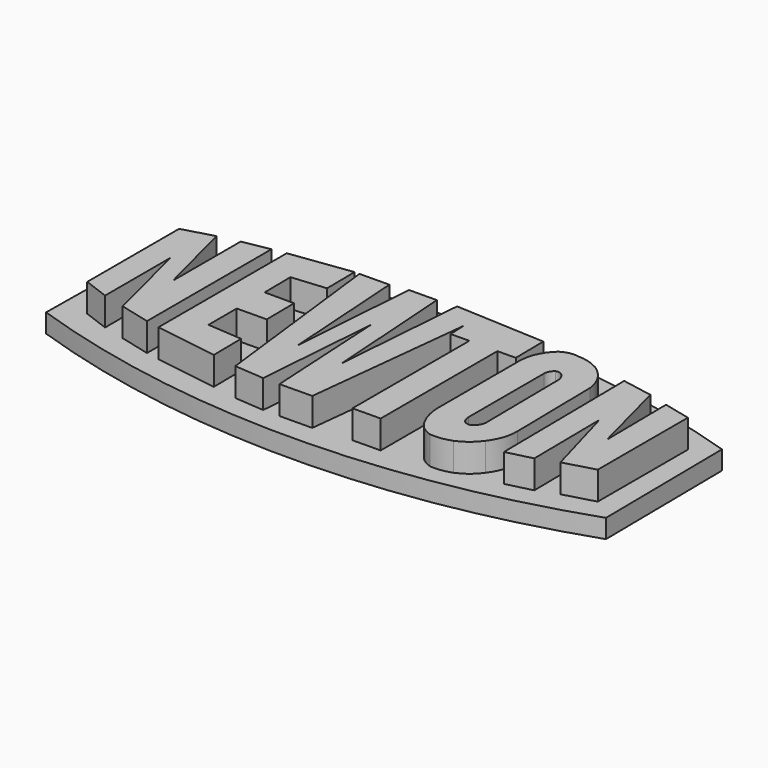
from build123d import *

# Parameters (mm, degrees)
F1_DEPTH = 3
F3_DEPTH = 2


with BuildPart() as f1:
    # F0 (on Top) → F1 (new body)
    with BuildSketch(Plane.XY):
        Polygon((-23.565747, 8.733586), (-26.811946, 7.810456), (-26.811946, -4.42697), (-24.105687, -5.435429), (-24.105687, 3.273411), (-21.755431, -6.025282), (-18.503955, -6.848847), (-18.503955, 9.736739), (-21.37113, 9.227031), (-21.37113, 0.183831), align=None)
        Polygon((-10.527196, 10.851217), (-17.061597, 9.973913), (-17.063336, -7.120089), (-10.348095, -8.144408), (-10.390801, -4.450301), (-14.086946, -4.170476), (-14.086946, -0.409178), (-10.908057, -0.372427), (-10.950724, 3.318271), (-14.086946, 3.318271), (-14.127168, 6.797468), (-10.484197, 7.131785), align=None)
        Polygon((-6.843771, 10.887864), (-10.013774, 10.851217), (-7.693077, -8.587812), (-4.531018, -8.831803), (-3.521484, 4.251498), (-2.791821, -8.831803), (0.67818, -8.791688), (2.618703, 8.953662), (2.700111, 7.121005), (4.679172, 7.143884), (4.679172, -8.443333), (7.66364, -8.408831), (7.66364, 7.143884), (9.612382, 7.166413), (9.569359, 10.887864), (0, 11.354624), (-1.080738, -2.574903), (-2.025757, 11.187691), (-4.974215, 11.153605), (-5.970521, -2.398258), align=None)
        Polygon((22.529045, 8.955718), (19.260596, 9.551114), (19.448553, -6.707126), (22.146616, -6.036957), (22.044722, 2.776925), (24.294013, -5.235689), (27.544877, -4.323111), (27.544877, 7.68314), (24.666015, 8.379457), (24.758457, 0.383226), align=None)
        with BuildLine():
            ThreePointArc((13.56484, 10.614374), (12.58338, 10.612468), (11.67815, 10.233224))
            ThreePointArc((11.67815, 10.233224), (10.567721, 8.708449), (10.191667, 6.860051))
            Line((10.191667, 6.860051), (10.194493, -3.856149))
            ThreePointArc((10.194493, -3.856149), (10.374655, -5.290787), (10.903246, -6.636608))
            ThreePointArc((10.903246, -6.636608), (11.635651, -7.532128), (12.656043, -8.077263))
            ThreePointArc((12.656043, -8.077263), (13.79671, -8.051781), (14.901063, -7.765121))
            ThreePointArc((14.901063, -7.765121), (16.071482, -7.074666), (17.002018, -6.084357))
            ThreePointArc((17.002018, -6.084357), (17.757929, -4.668834), (18.001225, -3.082671))
            Line((18.001225, -3.082671), (17.833713, 6.802879))
            ThreePointArc((17.833713, 6.802879), (17.166492, 8.640981), (15.767285, 10.007006))
            ThreePointArc((15.767285, 10.007006), (14.704057, 10.448465), (13.56484, 10.614374))
        make_face()
        with BuildLine():
            Line((13.219225, -3.660286), (13.219225, 6.444435))
            ThreePointArc((13.219225, 6.444435), (13.353404, 6.964312), (13.722419, 7.354317))
            ThreePointArc((13.722419, 7.354317), (14.10761, 7.367864), (14.448463, 7.187932))
            ThreePointArc((14.448463, 7.187932), (14.708863, 6.844124), (14.870914, 6.444435))
            Line((14.870914, 6.444435), (14.98508, -3.430936))
            ThreePointArc((14.98508, -3.430936), (14.798828, -4.132397), (14.277328, -4.637151))
            ThreePointArc((14.277328, -4.637151), (13.87296, -4.652777), (13.509215, -4.475443))
            ThreePointArc((13.509215, -4.475443), (13.293882, -4.092887), (13.219225, -3.660286))
        make_face(mode=Mode.SUBTRACT)
    extrude(amount=F1_DEPTH)

    # F2 (on face) → F3 (join)
    with BuildSketch(Plane(origin=(0, 0, 0), x_dir=(1, 0, 0), z_dir=(0, 0, -1))):
        with BuildLine():
            Line((29.726516, -9.49899), (29.907823, 6.184002))
            ThreePointArc((29.907823, 6.184002), (0.143357, 11.231437), (-29.651286, 6.365308))
            Line((-29.651286, 6.365308), (-29.46998, -9.227031))
            ThreePointArc((-29.46998, -9.227031), (0.106665, -14.06537), (29.726516, -9.49899))
        make_face()
    extrude(amount=F3_DEPTH)


solid = f1.part
